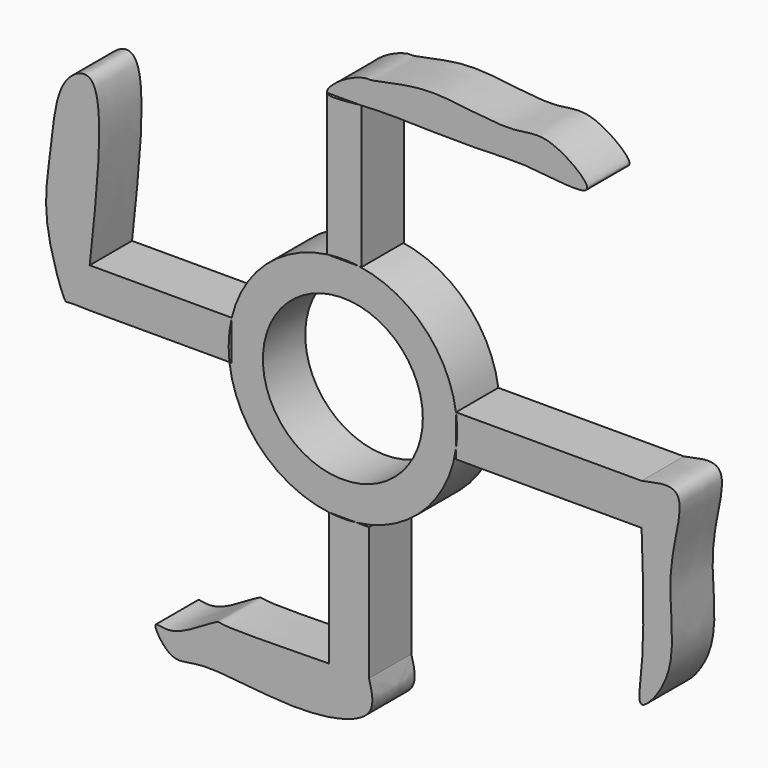
from build123d import *

# Parameters (mm, degrees)
F1_DEPTH = 6.95
F0_R     = 10.5


with BuildPart() as f1:
    # F0 (on Front) → F1 (new body)
    with BuildSketch(Plane.XZ):
        with BuildLine():
            Line((-33.2456417382, -1.7652553506), (-33.2456417382, 3.4611913842))
            add(Edge.make_bspline(
                [(-33.2456417382, -1.7652553506), (-34.5286094499, -1.7196912345), (-36.1428386296, -1.6623624918), (-36.5557644127, -2.0299386655), (-39.8134499815, 6.9426169345), (-38.1963776138, 14.967168871), (-37.6618827211, 23.8436787664), (-30.6396764475, 27.5562401016), (-32.1588338102, 13.5099399479), (-33.2456417382, 3.4611913842)],
                knots=[0, 0, 0, 0, 0.0980046189, 0.1233093507, 0.2849514398, 0.4621579485, 0.6284273598, 0.7341762604, 1, 1, 1, 1], degree=3))
        make_face()
        with BuildLine():
            ThreePointArc((-14.8957669674, -1.7652553506), (-14.9752584824, 0.8611813885), (-14.5952099746, 3.4611913842))
            Line((-14.5952099746, 3.4611913842), (-33.2456417382, 3.4611913842))
            Line((-33.2456417382, 3.4611913842), (-33.2456417382, -1.7652553506))
            Line((-33.2456417382, -1.7652553506), (-14.8957669674, -1.7652553506))
        make_face()
    extrude(amount=F1_DEPTH)


with BuildPart() as f1b:
    # F0 (on Front) → F1, piece 2 (new body)
    with BuildSketch(Plane.XZ):
        with BuildLine():
            Line((14.8506316787, -2.1115725757), (14.8506316787, 2.1115725757))
            ThreePointArc((14.8506316787, 2.1115725757), (10.5948380343, 10.6183523688), (2.0786442586, 14.8552764379))
            Line((2.0786442586, 14.8552764379), (-2.0786442586, 14.8552764379))
            ThreePointArc((-2.0786442586, 14.8552764379), (-10.0975565015, 11.0923105212), (-14.5952099746, 3.4611913842))
            Line((-14.5952099746, 3.4611913842), (-14.5952099746, -1.7652553506))
            Line((-14.5952099746, -1.7652553506), (-14.8957669674, -1.7652553506))
            ThreePointArc((-14.8957669674, -1.7652553506), (-10.6223210637, -10.5908590407), (-1.8094323726, -14.8904652207))
            Line((-1.8094323726, -14.8904652207), (1.8094323726, -14.8904652207))
            ThreePointArc((1.8094323726, -14.8904652207), (10.4983073806, -10.7138014795), (14.8506316787, -2.1115725757))
        make_face()
        Circle(F0_R, mode=Mode.SUBTRACT)
    extrude(amount=F1_DEPTH)


with BuildPart() as f1c:
    # F0 (on Front) → F1, piece 3 (new body)
    with BuildSketch(Plane.XZ):
        with BuildLine():
            ThreePointArc((-2.0786442586, 14.8552764379), (0, 15), (2.0786442586, 14.8552764379))
            Line((2.0786442586, 14.8552764379), (2.4517448619, 14.8552764379))
            Line((2.4517448619, 14.8552764379), (2.4517448619, 33.5398539901))
            add(Edge.make_bspline(
                [(2.4517448619, 33.5398539901), (0.1361349429, 33.377345386), (-1.8948218388, 33.0110916516), (-2.0786442586, 33.5398539901)],
                knots=[0.9302794421, 0.9302794421, 0.9302794421, 0.9302794421, 1, 1, 1, 1], degree=3))
            Line((-2.0786442586, 33.5398539901), (-2.0786442586, 14.8552764379))
        make_face()
    extrude(amount=F1_DEPTH)


with BuildPart() as f1d:
    # F0 (on Front) → F1, piece 4 (new body)
    with BuildSketch(Plane.XZ):
        with BuildLine():
            add(Edge.make_bspline(
                [(-2.0786442586, 33.5398539901), (-2.2281293452, 33.9698455223), (-0.0378350649, 36.0576569601), (3.0546612057, 36.9921196902), (3.6333666261, 36.7286365586), (9.4631359852, 38.2236146594), (14.5769740246, 38.00797199), (22.6652953434, 36.7294055445), (26.8506211116, 38.5036589973), (35.4988336061, 31.9935696585), (24.0054292018, 33.9277311489), (19.3029541754, 33.4558090357), (14.8787701955, 33.5698308715), (12.0011889206, 33.4728311552), (5.824447981, 33.7765489841), (2.4517448619, 33.5398539901)],
                knots=[0, 0, 0, 0, 0.0566970212, 0.1158397367, 0.1409664673, 0.2169848244, 0.2964425705, 0.3871720631, 0.4597067215, 0.5399688294, 0.6282110757, 0.7076688155, 0.772545814, 0.8287309296, 0.9302794421, 0.9302794421, 0.9302794421, 0.9302794421], degree=3))
            Line((-2.0786442586, 33.5398539901), (2.4517448619, 33.5398539901))
        make_face()
    extrude(amount=F1_DEPTH)


with BuildPart() as f1e:
    # F0 (on Front) → F1, piece 5 (new body)
    with BuildSketch(Plane.XZ):
        with BuildLine():
            add(Edge.make_bspline(
                [(39.2271014895, 2.1115725757), (41.1654789302, 2.5616367114), (45.3946197084, 3.5435840603), (43.0558271711, -4.906029526), (42.8598715278, -10.8396928368), (43.85986512, -19.2177742508), (38.2601162116, -25.7125995926), (39.7236403225, -18.0233362408), (39.4243099196, -9.163387141), (39.2271014895, -3.3261696874)],
                knots=[0, 0, 0, 0, 0.1155115018, 0.2520223318, 0.3910714773, 0.5492996187, 0.6724355072, 0.7841900497, 1, 1, 1, 1], degree=3))
            Line((39.2271014895, 2.1115725757), (39.2271014895, -3.3261696874))
        make_face()
        with BuildLine():
            ThreePointArc((14.8506316787, 2.1115725757), (14.9626113226, 1.058424494), (15, 0))
            ThreePointArc((15, 0), (14.9626113226, -1.058424494), (14.8506316787, -2.1115725757))
            Line((14.8506316787, -2.1115725757), (14.8506316787, -3.3261696874))
            Line((14.8506316787, -3.3261696874), (39.2271014895, -3.3261696874))
            Line((39.2271014895, -3.3261696874), (39.2271014895, 2.1115725757))
            Line((39.2271014895, 2.1115725757), (14.8506316787, 2.1115725757))
        make_face()
    extrude(amount=F1_DEPTH)


with BuildPart() as f1f:
    # F0 (on Front) → F1, piece 6 (new body)
    with BuildSketch(Plane.XZ):
        with BuildLine():
            Line((3.43244127, -14.8904652207), (1.8094323726, -14.8904652207))
            ThreePointArc((1.8094323726, -14.8904652207), (0, -15), (-1.8094323726, -14.8904652207))
            Line((-1.8094323726, -14.8904652207), (-1.8094323726, -32.3630161583))
            Line((-1.8094323726, -32.3630161583), (3.43244127, -32.3630161583))
            Line((3.43244127, -32.3630161583), (3.43244127, -14.8904652207))
        make_face()
        with BuildLine():
            Line((3.43244127, -32.3630161583), (-1.8094323726, -32.3630161583))
            add(Edge.make_bspline(
                [(3.43244127, -32.3630161583), (3.8275844941, -33.8032935216), (4.7302869421, -37.3929626982), (-6.0257252952, -39.8053551949), (-18.4323245068, -37.19255728), (-22.5554464108, -39.2474866311), (-25.5420976324, -34.4106601906), (-22.2953566838, -36.2745804779), (-16.5101658221, -31.990056252), (-15.7536667908, -32.6441003786), (-8.0931673505, -32.4426156995), (-1.8094323726, -32.3630161583)],
                knots=[0, 0, 0, 0, 0.0938109618, 0.2388417881, 0.4106969058, 0.5045079121, 0.5915163738, 0.6578507725, 0.7809513065, 0.822904844, 1, 1, 1, 1], degree=3))
        make_face()
    extrude(amount=F1_DEPTH)


solid = Compound([f1.part, f1b.part, f1c.part, f1d.part, f1e.part, f1f.part])
